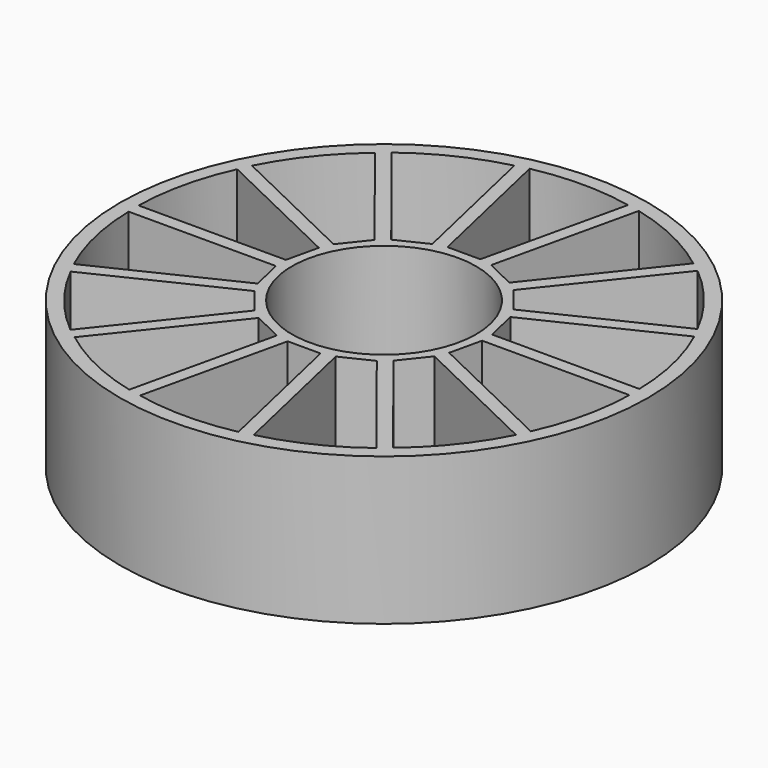
from build123d import *

# Parameters (mm, degrees)
F0_R     = 43
F0_R_2   = 15
F1_DEPTH = 24
F3_DEPTH = 22


with BuildPart() as f1:
    # F0 (on Top) → F1 (new body)
    with BuildSketch(Plane.XY):
        Circle(F0_R)
        Circle(F0_R_2, mode=Mode.SUBTRACT)
    extrude(amount=F1_DEPTH)

    # F2 (on face) → F3 (cut)
    with BuildSketch(Plane.XY.offset(24)):
        with BuildLine():
            Line((-11.312369, 12.229999), (-26.267696, 30.978592))
            ThreePointArc((-26.267696, 30.978592), (-31.908319, 25.231136), (-36.256517, 18.453006))
            Line((-36.256517, 18.453006), (-14.650118, 8.044594))
            Line((-14.650118, 8.044594), (-11.312369, 12.229999))
        make_face()
        with BuildLine():
            Line((-4.885694, 15.927101), (-10.225269, 39.307873))
            ThreePointArc((-10.225269, 39.307873), (-17.801022, 36.576969), (-24.659534, 32.356697))
            Line((-24.659534, 32.356697), (-9.708882, 13.604377))
            Line((-9.708882, 13.604377), (-4.885694, 15.927101))
        make_face()
        with BuildLine():
            Line((2.508652, 16.469646), (7.842398, 39.851748))
            ThreePointArc((7.842398, 39.851748), (-0.168015, 40.678284), (-8.178428, 39.851748))
            Line((-8.178428, 39.851748), (-2.844682, 16.469646))
            Line((-2.844682, 16.469646), (2.508652, 16.469646))
        make_face()
        with BuildLine():
            Line((9.406129, 13.750175), (24.356781, 32.502495))
            ThreePointArc((24.356781, 32.502495), (17.49827, 36.722767), (9.922517, 39.453671))
            Line((9.922517, 39.453671), (4.582941, 16.072899))
            Line((4.582941, 16.072899), (9.406129, 13.750175))
        make_face()
        with BuildLine():
            Line((14.440607, 8.307313), (36.047006, 18.715725))
            ThreePointArc((36.047006, 18.715725), (31.698808, 25.493855), (26.058185, 31.24131))
            Line((26.058185, 31.24131), (11.102857, 12.492718))
            Line((11.102857, 12.492718), (14.440607, 8.307313))
        make_face()
        with BuildLine():
            Line((16.614945, 1.219086), (40.597679, 1.222076))
            ThreePointArc((40.597679, 1.222076), (39.621008, 9.215572), (37.03271, 16.841225))
            Line((37.03271, 16.841225), (15.423716, 6.438201))
            Line((15.423716, 6.438201), (16.614945, 1.219086))
        make_face()
        with BuildLine():
            Line((15.49849, -6.110596), (37.107484, -16.51362))
            ThreePointArc((37.107484, -16.51362), (39.695782, -8.887967), (40.672453, -0.894471))
            Line((40.672453, -0.894471), (16.689719, -0.891481))
            Line((16.689719, -0.891481), (15.49849, -6.110596))
        make_face()
        with BuildLine():
            Line((11.312369, -12.229999), (26.267696, -30.978592))
            ThreePointArc((26.267696, -30.978592), (31.908319, -25.231136), (36.256517, -18.453006))
            Line((36.256517, -18.453006), (14.650118, -8.044594))
            Line((14.650118, -8.044594), (11.312369, -12.229999))
        make_face()
        with BuildLine():
            Line((4.885694, -15.927101), (10.225269, -39.307873))
            ThreePointArc((10.225269, -39.307873), (17.801022, -36.576969), (24.659534, -32.356697))
            Line((24.659534, -32.356697), (9.708882, -13.604377))
            Line((9.708882, -13.604377), (4.885694, -15.927101))
        make_face()
        with BuildLine():
            Line((-2.508652, -16.469646), (-7.842398, -39.851748))
            ThreePointArc((-7.842398, -39.851748), (0.168015, -40.678284), (8.178428, -39.851748))
            Line((8.178428, -39.851748), (2.844682, -16.469646))
            Line((2.844682, -16.469646), (-2.508652, -16.469646))
        make_face()
        with BuildLine():
            Line((-9.406129, -13.750175), (-24.356781, -32.502495))
            ThreePointArc((-24.356781, -32.502495), (-17.49827, -36.722767), (-9.922517, -39.453671))
            Line((-9.922517, -39.453671), (-4.582941, -16.072899))
            Line((-4.582941, -16.072899), (-9.406129, -13.750175))
        make_face()
        with BuildLine():
            Line((-14.440607, -8.307313), (-36.047006, -18.715725))
            ThreePointArc((-36.047006, -18.715725), (-31.698808, -25.493855), (-26.058185, -31.24131))
            Line((-26.058185, -31.24131), (-11.102857, -12.492718))
            Line((-11.102857, -12.492718), (-14.440607, -8.307313))
        make_face()
        with BuildLine():
            Line((-16.614945, -1.219086), (-40.597679, -1.222076))
            ThreePointArc((-40.597679, -1.222076), (-39.621008, -9.215572), (-37.03271, -16.841225))
            Line((-37.03271, -16.841225), (-15.423716, -6.438201))
            Line((-15.423716, -6.438201), (-16.614945, -1.219086))
        make_face()
        with BuildLine():
            Line((-15.49849, 6.110596), (-37.107484, 16.51362))
            ThreePointArc((-37.107484, 16.51362), (-39.695782, 8.887967), (-40.672453, 0.894471))
            Line((-40.672453, 0.894471), (-16.689719, 0.891481))
            Line((-16.689719, 0.891481), (-15.49849, 6.110596))
        make_face()
    extrude(amount=-F3_DEPTH, mode=Mode.SUBTRACT)


solid = f1.part
